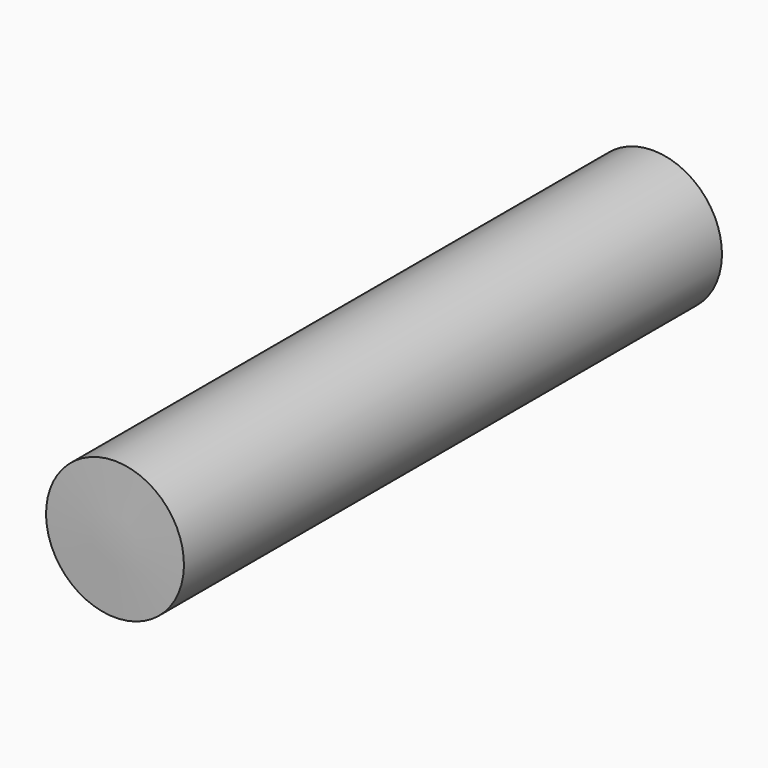
from build123d import *


with BuildPart() as f1:
    # F0 (on Right) → F1 (revolve)
    with BuildSketch(Plane.YZ):
        Polygon((-30.218476, 6.038491), (-30.426702, 0), (28.68283, 0), (28.68283, 6.038491), align=None)
    revolve(axis=Axis((0, -0.871936, 0), (0, 1, 0)))


solid = f1.part
